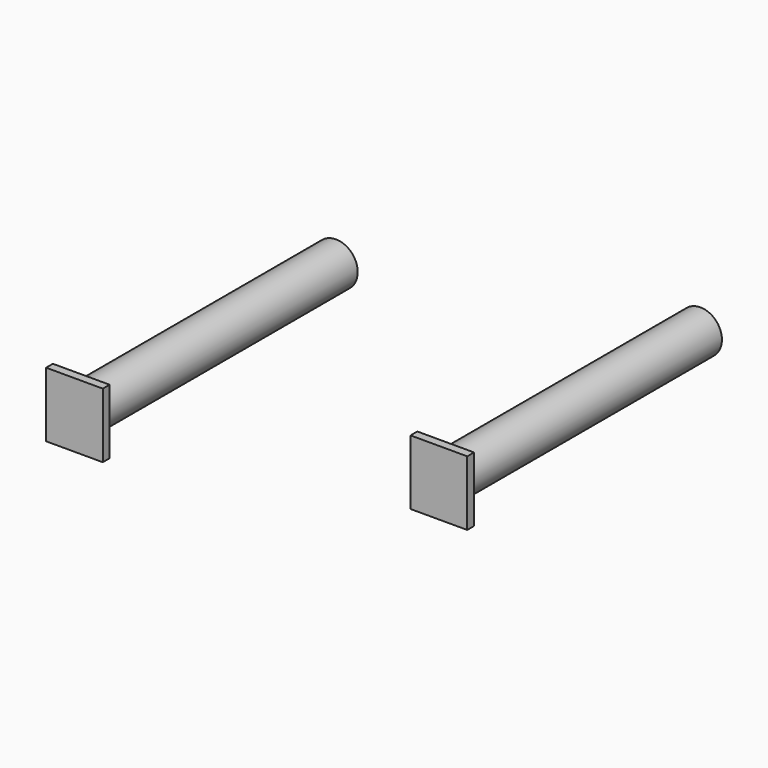
from build123d import *

# Parameters (mm, degrees)
F0_R     = 0.643797
F0_R_2   = 0.651139
F1_DEPTH = 9.525
F2_W     = 1.696401
F2_H     = 1.938931
F2_R     = 0.651139
F2_W_2   = 1.69639
F2_H_2   = 1.938934
F2_R_2   = 0.643797
F3_DEPTH = 0.254


with BuildPart() as f1:
    # F0 (on Front) → F1 (new body)
    with BuildSketch(Plane.XZ):
        with Locations((-21.570519, 39.660815)):
            Circle(F0_R)
        with Locations((-32.473449, 37.898526)):
            Circle(F0_R_2)
    extrude(amount=F1_DEPTH)

    # F2 (on face) → F3 (join)
    with BuildSketch(Plane.XZ.offset(9.525)):
        with Locations((-32.473449, 37.898525)):
            Rectangle(F2_W, F2_H)
        with Locations((-32.473449, 37.898526)):
            Circle(F2_R, mode=Mode.SUBTRACT)
        with Locations((-21.570519, 39.660815)):
            Rectangle(F2_W_2, F2_H_2)
        with Locations((-21.570519, 39.660815)):
            Circle(F2_R_2, mode=Mode.SUBTRACT)
        with Locations((-21.570519, 39.660815)):
            Circle(F2_R_2)
        with Locations((-32.473449, 37.898526)):
            Circle(F2_R)
    extrude(amount=F3_DEPTH)


solid = f1.part
